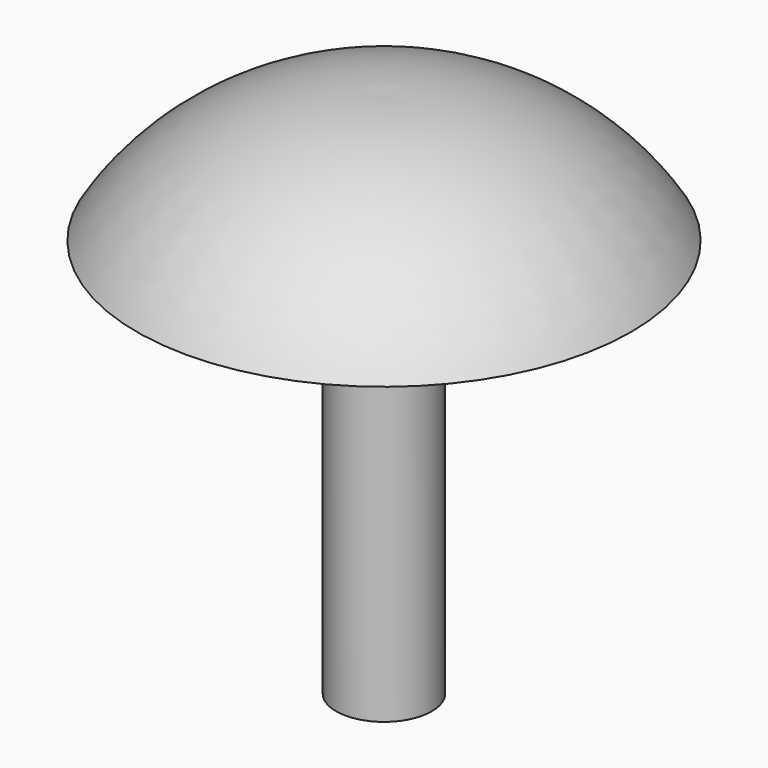
from build123d import *

# Parameters (mm, degrees)
F0_W = 0.762
F0_H = 6.35


with BuildPart() as f1:
    # F0 (on Front) → F1 (revolve)
    with BuildSketch(Plane.XZ):
        with Locations((0.381, 3.175)):
            Rectangle(F0_W, F0_H)
        with BuildLine():
            Line((0, 8.382), (0, 6.35))
            Line((0, 6.35), (0.762, 6.35))
            Line((0.762, 6.35), (3.937, 6.35))
            ThreePointArc((3.937, 6.35), (2.247412, 7.906392), (0, 8.382))
        make_face()
    revolve(axis=Axis((0, 0, 3.175), (0, 0, -1)))


solid = f1.part
